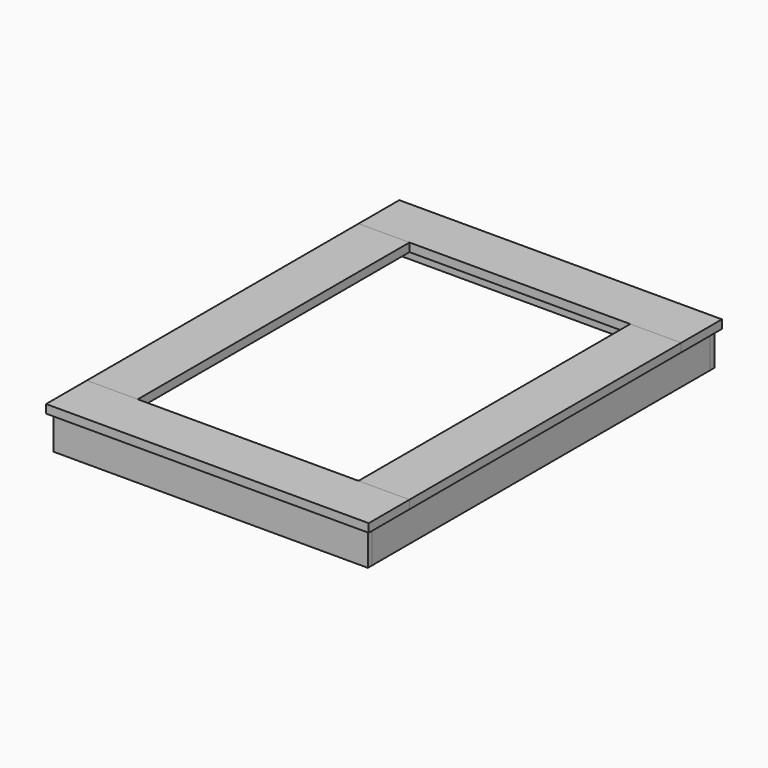
from build123d import *

# Parameters (mm, degrees)
F0_W     = 225
F0_H     = 2000
F0_W_2   = 30
F0_W_3   = 25
F0_W_4   = 20
F1_DEPTH = 50
F0_H_2   = 245
F2_DEPTH = 50
F3_DEPTH = 200
F4_DEPTH = 200


with BuildPart() as f1:
    # F0 (on Top) → F1 (new body)
    with BuildSketch(Plane.XY):
        with Locations((-762.5, 0)):
            Rectangle(F0_W, F0_H)
        with Locations((-910, 0)):
            Rectangle(F0_W_2, F0_H)
        with Locations((-937.5, 0)):
            Rectangle(F0_W_3, F0_H)
        with Locations((-885, 0)):
            Rectangle(F0_W_4, F0_H)
    extrude(amount=F1_DEPTH)


with BuildPart() as f1b:
    # F0 (on Top) → F1, piece 2 (new body)
    with BuildSketch(Plane.XY):
        with Locations((762.5, 0)):
            Rectangle(F0_W, F0_H)
        with Locations((910, 0)):
            Rectangle(F0_W_2, F0_H)
        with Locations((937.5, 0)):
            Rectangle(F0_W_3, F0_H)
        with Locations((885, 0)):
            Rectangle(F0_W_4, F0_H)
    extrude(amount=F1_DEPTH)


with BuildPart() as f2:
    # F0 (on Top) → F2 (new body)
    with BuildSketch(Plane.XY):
        Polygon((-875, 1225), (-875, 1000), (-650, 1000), (650, 1000), (875, 1000), (875, 1225), align=None)
        with Locations((-910, 1122.5)):
            Rectangle(F0_W_2, F0_H_2)
        Polygon((-925, 1275), (-925, 1245), (-895, 1245), (895, 1245), (925, 1245), (925, 1275), align=None)
        Polygon((-950, 1300), (-950, 1000), (-925, 1000), (-925, 1245), (-925, 1275), (925, 1275), (925, 1245), (925, 1000), (950, 1000), (950, 1300), align=None)
        with Locations((910, 1122.5)):
            Rectangle(F0_W_2, F0_H_2)
        Polygon((-895, 1245), (-895, 1000), (-875, 1000), (-875, 1225), (875, 1225), (875, 1000), (895, 1000), (895, 1245), align=None)
    extrude(amount=F2_DEPTH)


with BuildPart() as f2b:
    # F0 (on Top) → F2, piece 2 (new body)
    with BuildSketch(Plane.XY):
        Polygon((-650, -1000), (-875, -1000), (-875, -1225), (875, -1225), (875, -1000), (650, -1000), align=None)
        with Locations((-910, -1122.5)):
            Rectangle(F0_W_2, F0_H_2)
        Polygon((-950, -1000), (-950, -1300), (950, -1300), (950, -1000), (925, -1000), (925, -1245), (925, -1275), (-925, -1275), (-925, -1245), (-925, -1000), align=None)
        Polygon((-895, -1245), (-925, -1245), (-925, -1275), (925, -1275), (925, -1245), (895, -1245), align=None)
        with Locations((910, -1122.5)):
            Rectangle(F0_W_2, F0_H_2)
        Polygon((-875, -1000), (-895, -1000), (-895, -1245), (895, -1245), (895, -1000), (875, -1000), (875, -1225), (-875, -1225), align=None)
    extrude(amount=F2_DEPTH)


with BuildPart() as f3:
    # F0 (on Top) → F3 (new body)
    with BuildSketch(Plane.XY):
        with Locations((-910, 1122.5)):
            Rectangle(F0_W_2, F0_H_2)
        with Locations((-910, 0)):
            Rectangle(F0_W_2, F0_H)
        with Locations((-910, -1122.5)):
            Rectangle(F0_W_2, F0_H_2)
    extrude(amount=-F3_DEPTH)


with BuildPart() as f3b:
    # F0 (on Top) → F3, piece 2 (new body)
    with BuildSketch(Plane.XY):
        with Locations((910, -1122.5)):
            Rectangle(F0_W_2, F0_H_2)
        with Locations((910, 0)):
            Rectangle(F0_W_2, F0_H)
        with Locations((910, 1122.5)):
            Rectangle(F0_W_2, F0_H_2)
    extrude(amount=-F3_DEPTH)


with BuildPart() as f4:
    # F0 (on Top) → F4 (new body)
    with BuildSketch(Plane.XY):
        Polygon((-925, 1275), (-925, 1245), (-895, 1245), (895, 1245), (925, 1245), (925, 1275), align=None)
    extrude(amount=-F4_DEPTH)


with BuildPart() as f4b:
    # F0 (on Top) → F4, piece 2 (new body)
    with BuildSketch(Plane.XY):
        Polygon((-895, -1245), (-925, -1245), (-925, -1275), (925, -1275), (925, -1245), (895, -1245), align=None)
    extrude(amount=-F4_DEPTH)


solid = Compound([f1.part, f1b.part, f2.part, f2b.part, f3.part, f3b.part, f4.part, f4b.part])
